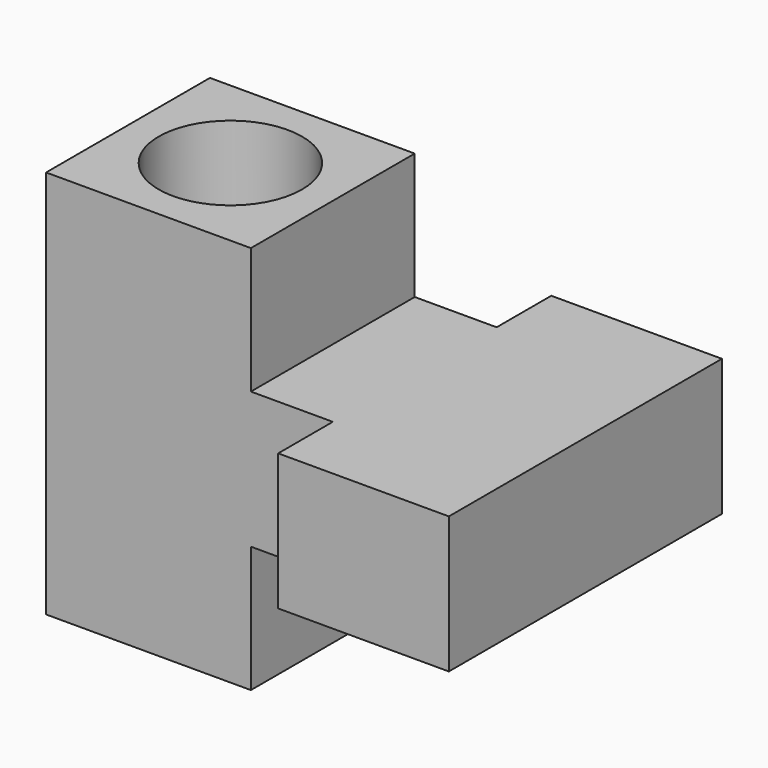
from build123d import *

# Parameters (mm, degrees)
F1_DEPTH = 10
F2_W     = 30
F2_H     = 30
F3_DEPTH = 28.5
F4_R     = 10.5
F5_DEPTH = 57.001


with BuildPart() as f1:
    # F0 (on Top) → F1 (new body, symmetric)
    with BuildSketch(Plane.XY):
        Polygon((-12.5, -25), (12.5, -25), (12.5, 25), (-12.5, 25), (-12.5, 15), (-54.5, 15), (-54.5, -15), (-12.5, -15), align=None)
    extrude(amount=F1_DEPTH, both=True)

    # F2 (on Top) → F3 (join, symmetric)
    with BuildSketch(Plane.XY):
        with Locations((-39.5, 0)):
            Rectangle(F2_W, F2_H)
    extrude(amount=F3_DEPTH, both=True)

    # F4 (on face) → F5 (cut, through all)
    with BuildSketch(Plane.XY.offset(28.5)):
        with Locations((-39.5, 0)):
            Circle(F4_R)
    extrude(amount=-F5_DEPTH, mode=Mode.SUBTRACT)


solid = f1.part
